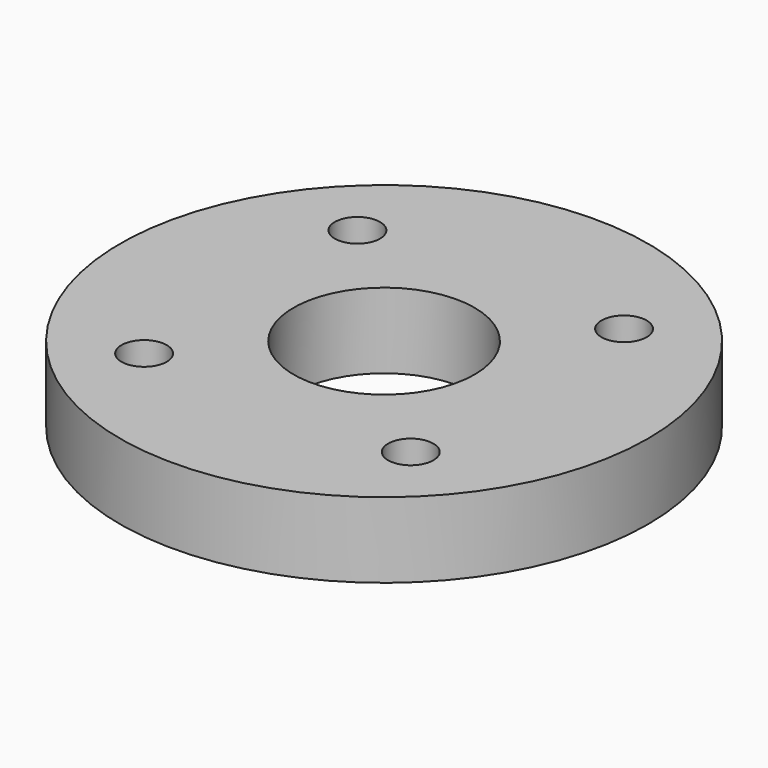
from build123d import *

# Parameters (mm, degrees)
SKETCH_R   = 35
SKETCH_R_2 = 12
SKETCH_R_3 = 3
PAD_DEPTH  = 10


with BuildPart() as part:
    # Sketch → Pad (new body)
    with BuildSketch(Plane.XY):
        Circle(SKETCH_R)
        Circle(SKETCH_R_2, mode=Mode.SUBTRACT)
        with Locations((-17.67767, 17.67767)):
            Circle(SKETCH_R_3, mode=Mode.SUBTRACT)
        with Locations((17.67767, 17.67767)):
            Circle(SKETCH_R_3, mode=Mode.SUBTRACT)
        with Locations((-17.67767, -17.67767)):
            Circle(SKETCH_R_3, mode=Mode.SUBTRACT)
        with Locations((17.67767, -17.67767)):
            Circle(SKETCH_R_3, mode=Mode.SUBTRACT)
    extrude(amount=PAD_DEPTH)


solid = part.part
